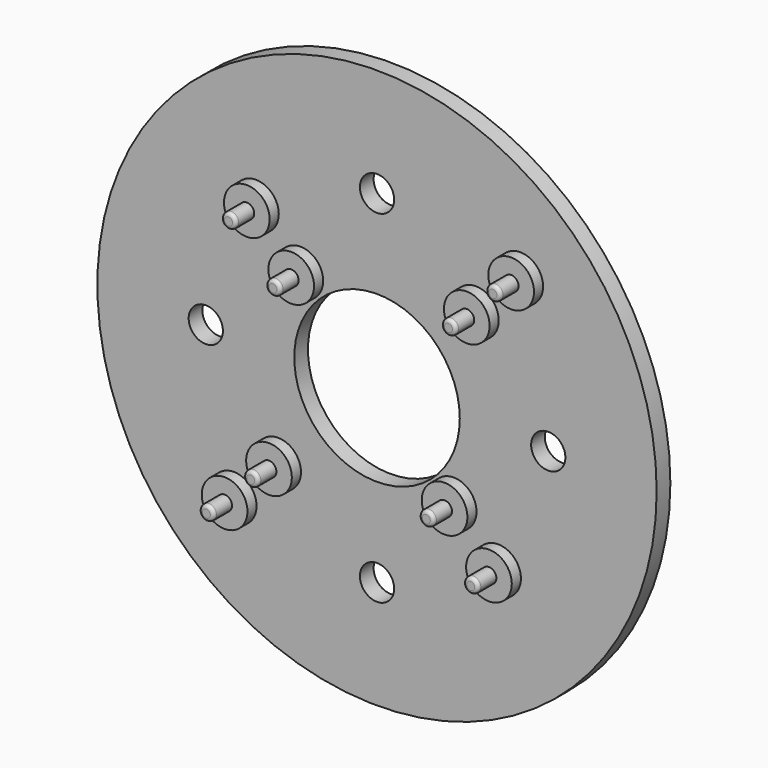
from build123d import *

# Parameters (mm, degrees)
F0_R     = 24.5
F0_R_2   = 1.5
F0_R_3   = 7.25
F1_DEPTH = 1.5
F2_R     = 2
F2_R_2   = 0.65
F3_DEPTH = 1
F4_DEPTH = 3
F5_R     = 0.3


with BuildPart() as f1:
    # F0 (on Front) → F1 (new body)
    with BuildSketch(Plane.XZ):
        Circle(F0_R)
        with Locations((0, -15)):
            Circle(F0_R_2, mode=Mode.SUBTRACT)
        with Locations((-15, 0)):
            Circle(F0_R_2, mode=Mode.SUBTRACT)
        Circle(F0_R_3, mode=Mode.SUBTRACT)
        with Locations((15, 0)):
            Circle(F0_R_2, mode=Mode.SUBTRACT)
        with Locations((0, 15)):
            Circle(F0_R_2, mode=Mode.SUBTRACT)
        Circle(F0_R)
        with Locations((0, -15)):
            Circle(F0_R_2, mode=Mode.SUBTRACT)
        with Locations((-15, 0)):
            Circle(F0_R_2, mode=Mode.SUBTRACT)
        Circle(F0_R_3, mode=Mode.SUBTRACT)
        with Locations((15, 0)):
            Circle(F0_R_2, mode=Mode.SUBTRACT)
        with Locations((0, 15)):
            Circle(F0_R_2, mode=Mode.SUBTRACT)
        Circle(F0_R)
        with Locations((0, -15)):
            Circle(F0_R_2, mode=Mode.SUBTRACT)
        with Locations((-15, 0)):
            Circle(F0_R_2, mode=Mode.SUBTRACT)
        Circle(F0_R_3, mode=Mode.SUBTRACT)
        with Locations((15, 0)):
            Circle(F0_R_2, mode=Mode.SUBTRACT)
        with Locations((0, 15)):
            Circle(F0_R_2, mode=Mode.SUBTRACT)
        Circle(F0_R)
        with Locations((0, -15)):
            Circle(F0_R_2, mode=Mode.SUBTRACT)
        with Locations((-15, 0)):
            Circle(F0_R_2, mode=Mode.SUBTRACT)
        Circle(F0_R_3, mode=Mode.SUBTRACT)
        with Locations((15, 0)):
            Circle(F0_R_2, mode=Mode.SUBTRACT)
        with Locations((0, 15)):
            Circle(F0_R_2, mode=Mode.SUBTRACT)
        Circle(F0_R)
        with Locations((0, -15)):
            Circle(F0_R_2, mode=Mode.SUBTRACT)
        with Locations((-15, 0)):
            Circle(F0_R_2, mode=Mode.SUBTRACT)
        Circle(F0_R_3, mode=Mode.SUBTRACT)
        with Locations((15, 0)):
            Circle(F0_R_2, mode=Mode.SUBTRACT)
        with Locations((0, 15)):
            Circle(F0_R_2, mode=Mode.SUBTRACT)
    extrude(amount=F1_DEPTH)

    # F2 (on face) → F3 (join)
    with BuildSketch(Plane.XZ.offset(1.5)):
        with Locations((-12.551145, -12.551145)):
            Circle(F2_R)
        with Locations((-12.551145, -12.551145)):
            Circle(F2_R_2, mode=Mode.SUBTRACT)
        with Locations((-8.662058, -8.662058)):
            Circle(F2_R)
        with Locations((-8.662058, -8.662058)):
            Circle(F2_R_2, mode=Mode.SUBTRACT)
        with Locations((-10.606602, 10.606602)):
            Circle(F2_R)
        with Locations((-10.606602, 10.606602)):
            Circle(F2_R_2, mode=Mode.SUBTRACT)
        with Locations((-6.717514, 6.717514)):
            Circle(F2_R)
        with Locations((-6.717514, 6.717514)):
            Circle(F2_R_2, mode=Mode.SUBTRACT)
        with Locations((8.662058, 8.662058)):
            Circle(F2_R)
        with Locations((8.662058, 8.662058)):
            Circle(F2_R_2, mode=Mode.SUBTRACT)
        with Locations((12.551145, 12.551145)):
            Circle(F2_R)
        with Locations((12.551145, 12.551145)):
            Circle(F2_R_2, mode=Mode.SUBTRACT)
        with Locations((6.717514, -6.717514)):
            Circle(F2_R)
        with Locations((6.717514, -6.717514)):
            Circle(F2_R_2, mode=Mode.SUBTRACT)
        with Locations((10.606602, -10.606602)):
            Circle(F2_R)
        with Locations((10.606602, -10.606602)):
            Circle(F2_R_2, mode=Mode.SUBTRACT)
    extrude(amount=F3_DEPTH)

    # F2 (on face) → F4 (join)
    with BuildSketch(Plane.XZ.offset(1.5)):
        with Locations((-8.662058, -8.662058)):
            Circle(F2_R_2)
        with Locations((6.717514, -6.717514)):
            Circle(F2_R_2)
        with Locations((10.606602, -10.606602)):
            Circle(F2_R_2)
        with Locations((8.662058, 8.662058)):
            Circle(F2_R_2)
        with Locations((12.551145, 12.551145)):
            Circle(F2_R_2)
        with Locations((-6.717514, 6.717514)):
            Circle(F2_R_2)
        with Locations((-10.606602, 10.606602)):
            Circle(F2_R_2)
        with Locations((-12.551145, -12.551145)):
            Circle(F2_R_2)
    extrude(amount=F4_DEPTH)

    # F5
    f5_edges = [f1.edges().sort_by_distance(p)[0] for p in [
        (-13.201145, -4.5, -12.551145),
        (-9.312058, -4.5, -8.662058),
        (6.067514, -4.5, -6.717514),
        (9.956602, -4.5, -10.606602),
        (-7.367514, -4.5, 6.717514),
        (-11.256602, -4.5, 10.606602),
        (8.012058, -4.5, 8.662058),
        (11.901145, -4.5, 12.551145),
    ]]
    fillet(f5_edges, radius=F5_R)


solid = f1.part
